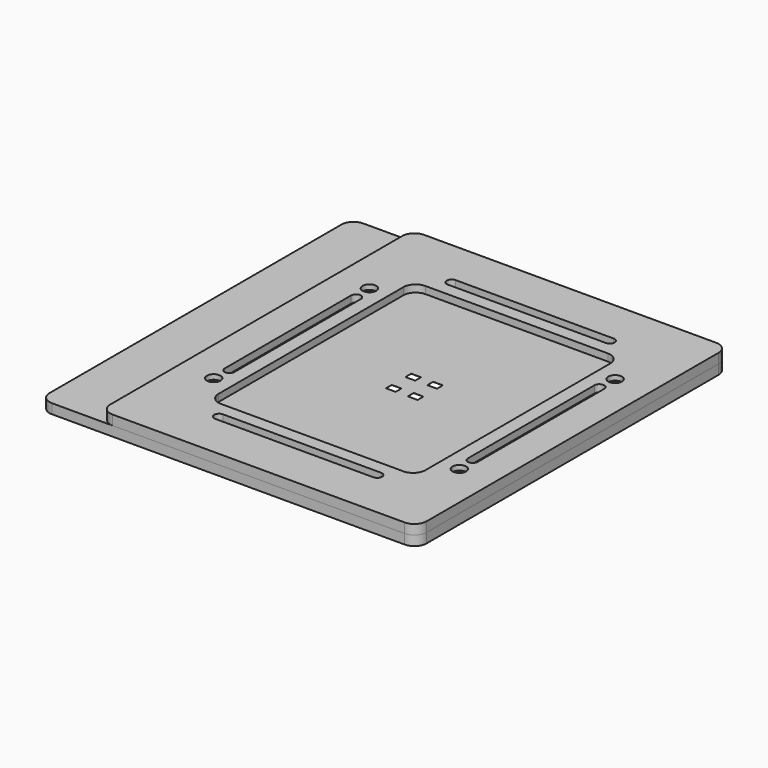
from build123d import *

# Parameters (mm, degrees)
SKETCH_W         = 4
SKETCH_H         = 3
EXTRUDE_DEPTH    = 0.05
EXTRUDE005_DEPTH = 2
SKETCH001_R      = 1.45
EXTRUDE001_DEPTH = 4
SKETCH004_R      = 2.8
EXTRUDE004_DEPTH = 3
SKETCH003_R      = 1.8
EXTRUDE003_DEPTH = 4


with BuildPart() as extrude_body:
    # Sketch → Extrude (new body)
    with BuildSketch(Plane.XY):
        with BuildLine():
            Line((-47.825, 62.625), (47.825, 62.625))
            ThreePointArc((52.825, 57.625), (51.360534, 61.160534), (47.825, 62.625))
            Line((52.825, 57.625), (52.825, -57.625))
            ThreePointArc((47.825, -62.625), (51.360534, -61.160534), (52.825, -57.625))
            Line((47.825, -62.625), (-47.825, -62.625))
            ThreePointArc((-52.825, -57.625), (-51.360534, -61.160534), (-47.825, -62.625))
            Line((-52.825, -57.625), (-52.825, 57.625))
            ThreePointArc((-47.825, 62.625), (-51.360534, 61.160534), (-52.825, 57.625))
        make_face()
        with Locations((-4.5, 5)):
            Rectangle(SKETCH_W, SKETCH_H, mode=Mode.SUBTRACT)
        with Locations((4.5, 5)):
            Rectangle(SKETCH_W, SKETCH_H, mode=Mode.SUBTRACT)
        with Locations((-4.5, -5)):
            Rectangle(SKETCH_W, SKETCH_H, mode=Mode.SUBTRACT)
        with Locations((4.5, -5)):
            Rectangle(SKETCH_W, SKETCH_H, mode=Mode.SUBTRACT)
    extrude(amount=EXTRUDE_DEPTH)


with BuildPart() as extrude_body_1:
    # Extrude placement: moved
    add(extrude_body.part.moved(Location((0, 0, 5))))


with BuildPart() as extrude005:
    # Sketch002 → Extrude005 (new body)
    with BuildSketch(Plane.XY):
        with BuildLine():
            Line((53.25, 32.5), (53.25, -32.5))
            ThreePointArc((53.25, -32.5), (54.5, -33.75), (55.75, -32.5))
            Line((55.75, -32.5), (55.75, 32.5))
            ThreePointArc((55.75, 32.5), (54.5, 33.75), (53.25, 32.5))
        make_face()
        with BuildLine():
            Line((-53.25, 32.5), (-53.25, -32.5))
            ThreePointArc((-55.75, -32.5), (-54.5, -33.75), (-53.25, -32.5))
            Line((-55.75, -32.5), (-55.75, 32.5))
            ThreePointArc((-53.25, 32.5), (-54.5, 33.75), (-55.75, 32.5))
        make_face()
        with BuildLine():
            Line((-32.5, 65.5), (32.5, 65.5))
            ThreePointArc((32.5, 63), (33.75, 64.25), (32.5, 65.5))
            Line((32.5, 63), (-32.5, 63))
            ThreePointArc((-32.5, 65.5), (-33.75, 64.25), (-32.5, 63))
        make_face()
        with BuildLine():
            Line((-32.5, -63), (32.5, -63))
            ThreePointArc((32.5, -65.5), (33.75, -64.25), (32.5, -63))
            Line((32.5, -65.5), (-32.5, -65.5))
            ThreePointArc((-32.5, -63), (-33.75, -64.25), (-32.5, -65.5))
        make_face()
    extrude(amount=EXTRUDE005_DEPTH)


with BuildPart() as extrude005_1:
    # Extrude005 placement: moved
    add(extrude005.part.moved(Location((0, 0, 4))))


with BuildPart() as fusion:
    # Sketch001 → Extrude001 (new body)
    with BuildSketch(Plane.XY):
        with BuildLine():
            Line((-85, 80), (60, 80))
            ThreePointArc((65, 75), (63.535534, 78.535534), (60, 80))
            Line((65, 75), (65, -75))
            ThreePointArc((60, -80), (63.535534, -78.535534), (65, -75))
            Line((60, -80), (-85, -80))
            ThreePointArc((-90, -75), (-88.535534, -78.535534), (-85, -80))
            Line((-90, -75), (-90, 75))
            ThreePointArc((-85, 80), (-88.535534, 78.535534), (-90, 75))
        make_face()
        with Locations((-55, 45)):
            Circle(SKETCH001_R, mode=Mode.SUBTRACT)
        with Locations((55, -45)):
            Circle(SKETCH001_R, mode=Mode.SUBTRACT)
        with Locations((-55, -45)):
            Circle(SKETCH001_R, mode=Mode.SUBTRACT)
        with Locations((55, 45)):
            Circle(SKETCH001_R, mode=Mode.SUBTRACT)
        with Locations((0, 70)):
            Circle(SKETCH001_R, mode=Mode.SUBTRACT)
        with Locations((0, -70)):
            Circle(SKETCH001_R, mode=Mode.SUBTRACT)
        with BuildLine():
            Line((-42.5, 57.5), (42.5, 57.5))
            ThreePointArc((47.5, 52.5), (46.035534, 56.035534), (42.5, 57.5))
            Line((47.5, 52.5), (47.5, -52.5))
            ThreePointArc((42.5, -57.5), (46.035534, -56.035534), (47.5, -52.5))
            Line((42.5, -57.5), (-42.5, -57.5))
            ThreePointArc((-47.5, -52.5), (-46.035534, -56.035534), (-42.5, -57.5))
            Line((-47.5, -52.5), (-47.5, 52.5))
            ThreePointArc((-42.5, 57.5), (-46.035534, 56.035534), (-47.5, 52.5))
        make_face(mode=Mode.SUBTRACT)
    extrude(amount=EXTRUDE001_DEPTH)

    # Fusion: union Extrude005
    add(extrude005_1.part)


with BuildPart() as extrude004:
    # Sketch004 → Extrude004 (new body)
    with BuildSketch(Plane.XY):
        with Locations((-50.5, 40)):
            Circle(SKETCH004_R)
        with Locations((50.5, -40)):
            Circle(SKETCH004_R)
        with Locations((-50.5, -40)):
            Circle(SKETCH004_R)
        with Locations((50.5, 40)):
            Circle(SKETCH004_R)
    extrude(amount=EXTRUDE004_DEPTH)


with BuildPart() as extrude004_1:
    # Extrude004 placement: moved
    add(extrude004.part.moved(Location((0, 0, 6))))


with BuildPart() as cut:
    # Sketch003 → Extrude003 (new body)
    with BuildSketch(Plane.XY):
        with BuildLine():
            Line((-60, 80), (60, 80))
            ThreePointArc((65, 75), (63.535534, 78.535534), (60, 80))
            Line((65, 75), (65, -75))
            ThreePointArc((60, -80), (63.535534, -78.535534), (65, -75))
            Line((60, -80), (-60, -80))
            ThreePointArc((-65, -75), (-63.535534, -78.535534), (-60, -80))
            Line((-65, -75), (-65, 75))
            ThreePointArc((-60, 80), (-63.535534, 78.535534), (-65, 75))
        make_face()
        with Locations((-50.5, 40)):
            Circle(SKETCH003_R, mode=Mode.SUBTRACT)
        with Locations((50.5, -40)):
            Circle(SKETCH003_R, mode=Mode.SUBTRACT)
        with Locations((-50.5, -40)):
            Circle(SKETCH003_R, mode=Mode.SUBTRACT)
        with Locations((50.5, 40)):
            Circle(SKETCH003_R, mode=Mode.SUBTRACT)
        with BuildLine():
            Line((-37.5, 52.5), (37.5, 52.5))
            ThreePointArc((42.5, 47.5), (41.035534, 51.035534), (37.5, 52.5))
            Line((42.5, 47.5), (42.5, -47.5))
            ThreePointArc((37.5, -52.5), (41.035534, -51.035534), (42.5, -47.5))
            Line((37.5, -52.5), (-37.5, -52.5))
            ThreePointArc((-42.5, -47.5), (-41.035534, -51.035534), (-37.5, -52.5))
            Line((-42.5, -47.5), (-42.5, 47.5))
            ThreePointArc((-37.5, 52.5), (-41.035534, 51.035534), (-42.5, 47.5))
        make_face(mode=Mode.SUBTRACT)
        with BuildLine():
            ThreePointArc((-48, 32.5), (-50, 34.5), (-52, 32.5))
            Line((-52, 32.5), (-52, -32.5))
            ThreePointArc((-52, -32.5), (-50, -34.5), (-48, -32.5))
            Line((-48, 32.5), (-48, -32.5))
        make_face(mode=Mode.SUBTRACT)
        with BuildLine():
            ThreePointArc((-32.5, -57.75), (-34.5, -59.75), (-32.5, -61.75))
            Line((-32.5, -61.75), (32.5, -61.75))
            ThreePointArc((32.5, -61.75), (34.5, -59.75), (32.5, -57.75))
            Line((-32.5, -57.75), (32.5, -57.75))
        make_face(mode=Mode.SUBTRACT)
        with BuildLine():
            ThreePointArc((52, 32.5), (50, 34.5), (48, 32.5))
            Line((48, 32.5), (48, -32.5))
            ThreePointArc((48, -32.5), (50, -34.5), (52, -32.5))
            Line((52, 32.5), (52, -32.5))
        make_face(mode=Mode.SUBTRACT)
        with BuildLine():
            ThreePointArc((-32.5, 61.75), (-34.5, 59.75), (-32.5, 57.75))
            Line((-32.5, 57.75), (32.5, 57.75))
            ThreePointArc((32.5, 57.75), (34.5, 59.75), (32.5, 61.75))
            Line((-32.5, 61.75), (32.5, 61.75))
        make_face(mode=Mode.SUBTRACT)
    extrude(amount=EXTRUDE003_DEPTH)


with BuildPart() as cut_1:
    # Extrude003 placement: moved
    add(cut.part.moved(Location((0, 0, 4))))

    # Cut: cut Extrude004
    add(extrude004_1.part, mode=Mode.SUBTRACT)


solid = Compound([extrude_body_1.part, fusion.part, cut_1.part])
